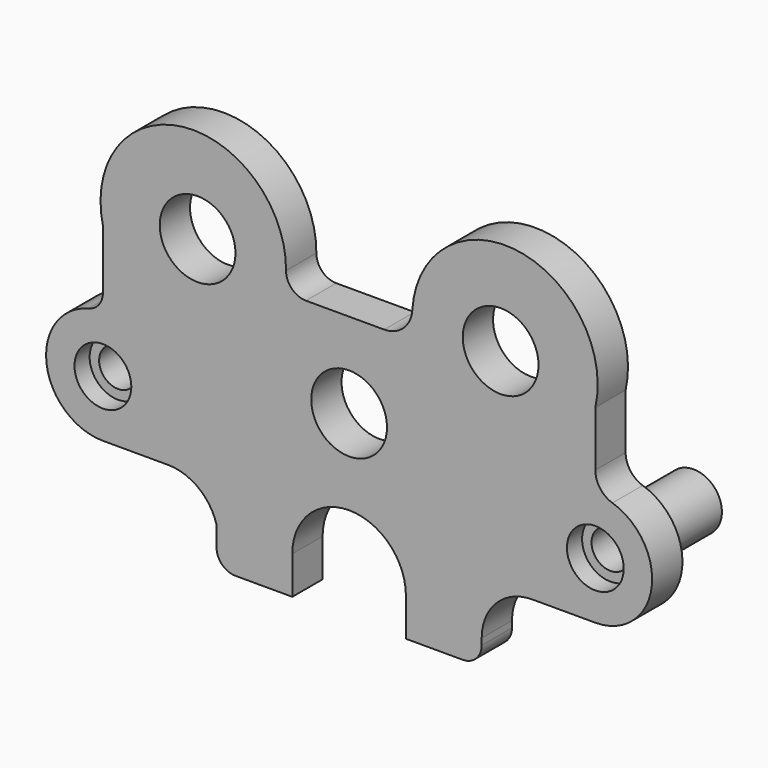
from build123d import *

# Parameters (mm, degrees)
F0_R     = 9.525
F0_R_2   = 12.7
F1_DEPTH = 6.35
F0_R_3   = 6.35
F2_DEPTH = 34.798


with BuildPart() as f1:
    # F0 (on Front) → F1 (new body, symmetric)
    with BuildSketch(Plane.XZ):
        with BuildLine():
            Line((11.749337, 63.5), (0, 63.5))
            Line((0, 63.5), (-14.473521, 63.5))
            ThreePointArc((-14.473521, 63.5), (-19.210295, 65.474072), (-21.143237, 70.227779))
            ThreePointArc((-21.143237, 70.227779), (-55.632068, 101.414992), (-82.55, 63.5))
            Line((-82.55, 63.5), (-82.55, 43.643444))
            ThreePointArc((-82.55, 43.643444), (-83.879884, 39.754879), (-87.3125, 37.495083))
            ThreePointArc((-87.3125, 37.495083), (-101.448166, 16.649618), (-82.55, 0))
            Line((-82.55, 0), (-60.763085, 0))
            ThreePointArc((-60.763085, 0), (-50.519969, -3.449404), (-44.45, -12.392295))
            Line((-44.45, -12.392295), (-44.45, -19.05))
            ThreePointArc((-44.45, -19.05), (-42.590128, -23.540128), (-38.1, -25.4))
            Line((-38.1, -25.4), (-19.05, -25.4))
            Line((-19.05, -25.4), (-19.05, -12.7))
            ThreePointArc((-19.05, -12.7), (-13.470384, 0.770384), (0, 6.35))
            ThreePointArc((0, 6.35), (13.470384, 0.770384), (19.05, -12.7))
            Line((19.05, -12.7), (19.05, -25.4))
            Line((19.05, -25.4), (38.1, -25.4))
            ThreePointArc((38.1, -25.4), (42.590128, -23.540128), (44.45, -19.05))
            Line((44.45, -19.05), (44.45, -16.933333))
            ThreePointArc((44.45, -16.933333), (49.409659, -4.959659), (61.383333, 0))
            Line((61.383333, 0), (82.55, 0))
            ThreePointArc((82.55, 0), (101.376826, 16.142575), (88.296728, 37.212533))
            ThreePointArc((88.296728, 37.212533), (84.140357, 40.195698), (82.55, 45.058358))
            Line((82.55, 45.058358), (82.55, 63.5))
            ThreePointArc((82.55, 63.5), (56.705784, 101.278409), (21.199795, 72.391448))
            ThreePointArc((21.199795, 72.391448), (18.237191, 66.072282), (11.749337, 63.5))
        make_face()
        with Locations((-82.55, 19.05)):
            Circle(F0_R, mode=Mode.SUBTRACT)
        with Locations((0, 34.925)):
            Circle(F0_R_2, mode=Mode.SUBTRACT)
        with Locations((82.55, 19.05)):
            Circle(F0_R, mode=Mode.SUBTRACT)
        with Locations((-50.8, 69.85)):
            Circle(F0_R_2, mode=Mode.SUBTRACT)
        with Locations((50.8, 69.85)):
            Circle(F0_R_2, mode=Mode.SUBTRACT)
    extrude(amount=F1_DEPTH, both=True)

    # F0 (on Front) → F2 (join)
    with BuildSketch(Plane.XZ):
        with Locations((82.55, 19.05)):
            Circle(F0_R)
        with Locations((82.55, 19.05)):
            Circle(F0_R_3, mode=Mode.SUBTRACT)
        with Locations((-82.55, 19.05)):
            Circle(F0_R)
        with Locations((-82.55, 19.05)):
            Circle(F0_R_3, mode=Mode.SUBTRACT)
    extrude(amount=-F2_DEPTH)


solid = f1.part
